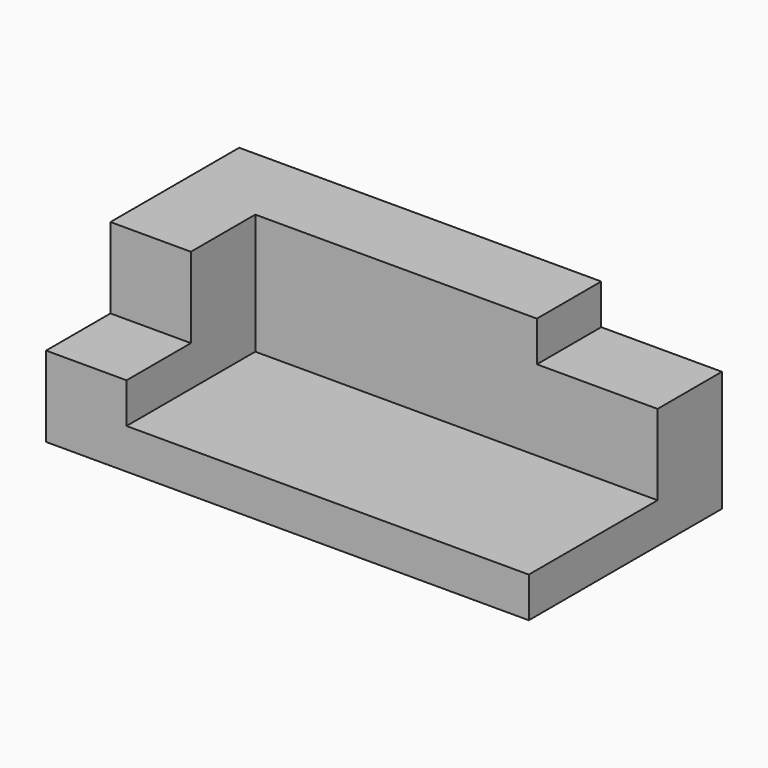
from build123d import *

# Parameters (mm, degrees)
F0_W     = 30
F0_H     = 20
F0_W_2   = 20
F1_DEPTH = 40
F2_DEPTH = 20
F3_DEPTH = 10
F4_DEPTH = 30


with BuildPart() as f1:
    # F0 (on Top) → F1 (new body)
    with BuildSketch(Plane.XY):
        Polygon((90, 0), (0, 0), (0, -40), (20, -40), (20, -20), (90, -20), align=None)
        with Locations((105, -10)):
            Rectangle(F0_W, F0_H)
        with Locations((10, -50)):
            Rectangle(F0_W_2, F0_H)
        Polygon((120, -20), (90, -20), (20, -20), (20, -40), (20, -60), (120, -60), align=None)
    extrude(amount=-F1_DEPTH)

    # F0 (on Top) → F2 (cut)
    with BuildSketch(Plane.XY):
        with Locations((10, -50)):
            Rectangle(F0_W_2, F0_H)
    extrude(amount=-F2_DEPTH, mode=Mode.SUBTRACT)

    # F0 (on Top) → F3 (cut)
    with BuildSketch(Plane.XY):
        with Locations((105, -10)):
            Rectangle(F0_W, F0_H)
    extrude(amount=-F3_DEPTH, mode=Mode.SUBTRACT)

    # F0 (on Top) → F4 (cut)
    with BuildSketch(Plane.XY):
        Polygon((120, -20), (90, -20), (20, -20), (20, -40), (20, -60), (120, -60), align=None)
    extrude(amount=-F4_DEPTH, mode=Mode.SUBTRACT)


solid = f1.part
